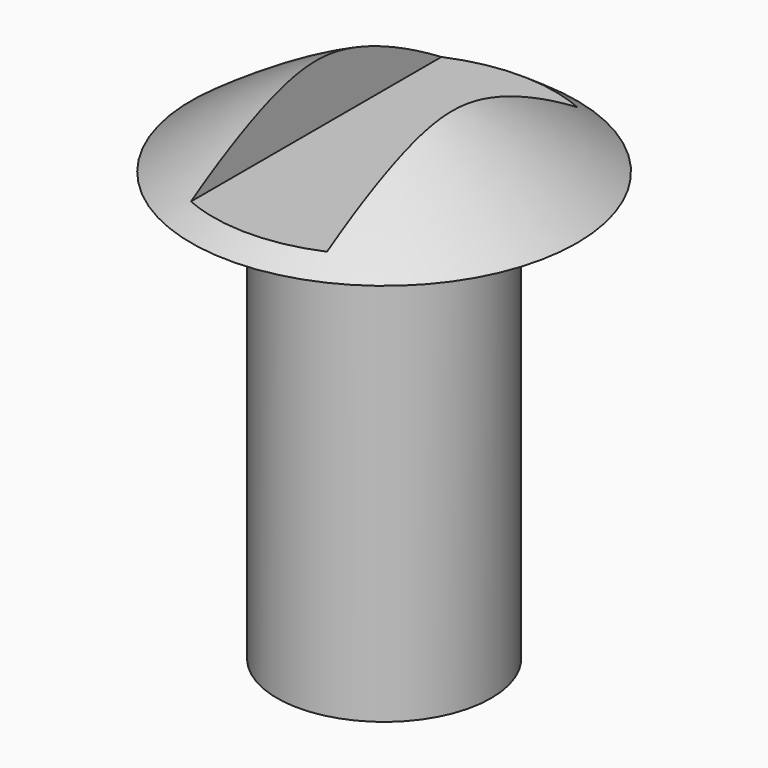
from build123d import *

# Parameters (mm, degrees)
F4_DEPTH = 3.81


with BuildPart() as f1:
    # F0 (on Front) → F1 (revolve)
    with BuildSketch(Plane.XZ):
        with BuildLine():
            Line((0, 15.875), (0, 0))
            Line((0, 0), (3.175, 0))
            Line((3.175, 0), (3.175, 12.7))
            Line((3.175, 12.7), (5.715, 12.7))
            ThreePointArc((5.715, 12.7), (2.94846, 14.451227), (0, 15.875))
        make_face()
    revolve(axis=Axis((0, 0, 7.9375), (0, 0, 1)))

    # F3 (on offset) → F4 (cut)
    with BuildSketch(Plane.XY.offset(16.9672)):
        Polygon((2.017231, -6.746283), (2.017231, 0), (2.017231, 6.254312), (-2.013521, 6.254312), (-2.013521, -6.746283), align=None)
    extrude(amount=-F4_DEPTH, mode=Mode.SUBTRACT)


solid = f1.part
